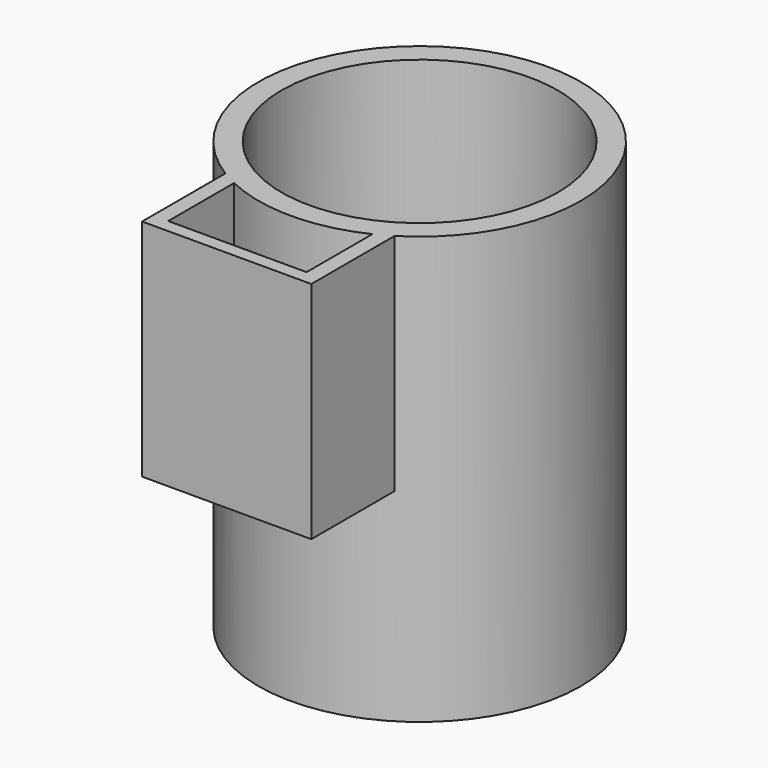
from build123d import *

# Parameters (mm, degrees)
F0_R     = 37.170022
F0_R_2   = 31.88441
F1_DEPTH = 98.552
F3_DEPTH = 51.816


with BuildPart() as f1:
    # F0 (on Top) → F1 (new body)
    with BuildSketch(Plane.XY):
        Circle(F0_R)
        Circle(F0_R_2, mode=Mode.SUBTRACT)
    extrude(amount=F1_DEPTH)

    # F2 (on face) → F3 (join)
    with BuildSketch(Plane.XY.offset(98.552)):
        with BuildLine():
            Line((-19.516608, -55.634487), (19.516608, -55.634487))
            Line((19.516608, -55.634487), (19.516608, -31.634041))
            ThreePointArc((19.516608, -31.634041), (17.761469, -32.651811), (15.953412, -33.572298))
            Line((15.953412, -33.572298), (15.953412, -52.557178))
            Line((15.953412, -52.557178), (-15.953412, -52.557178))
            Line((-15.953412, -52.557178), (-15.953412, -33.572298))
            ThreePointArc((-15.953412, -33.572298), (-17.761469, -32.651811), (-19.516608, -31.634041))
            Line((-19.516608, -31.634041), (-19.516608, -55.634487))
        make_face()
    extrude(amount=-F3_DEPTH)


solid = f1.part
